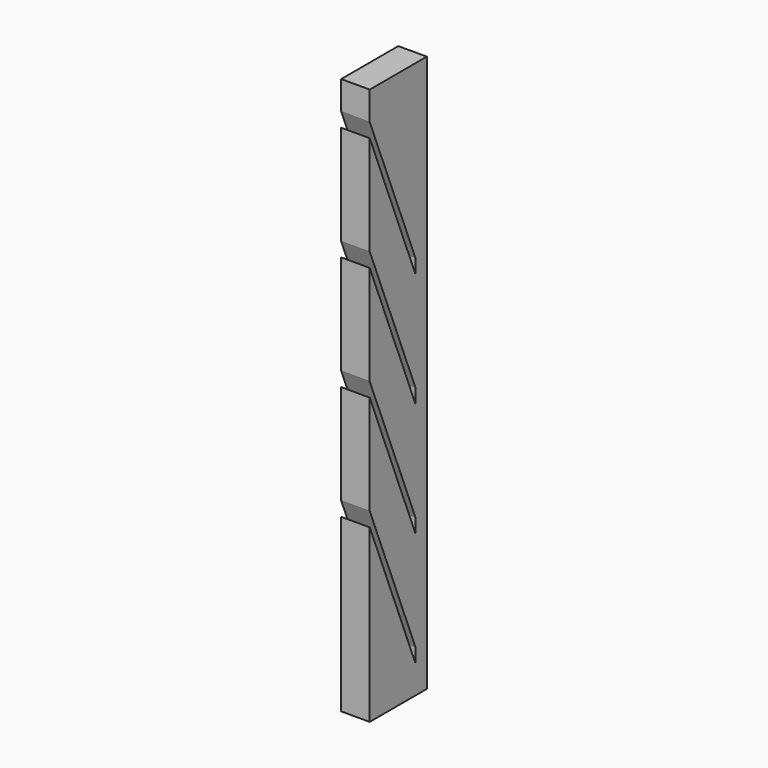
from build123d import *

# Parameters (mm, degrees)
F0_W     = 50
F0_H     = 390
F1_DEPTH = 20
F3_DEPTH = 20.001


with BuildPart() as f1:
    # F0 (on Right) → F1 (new body)
    with BuildSketch(Plane.YZ):
        with Locations((-40.524636, 124.095061)):
            Rectangle(F0_W, F0_H)
    extrude(amount=F1_DEPTH)

    # F2 (on face) → F3 (cut, through all)
    with BuildSketch(Plane.YZ.offset(20)):
        Polygon((-65.524636, 59.095061), (-65.524636, 49.095061), (-25.524636, -50.904939), (-25.524636, -40.904939), align=None)
        Polygon((-25.524636, 29.095061), (-25.524636, 39.095061), (-65.524636, 139.095061), (-65.524636, 129.095061), align=None)
        Polygon((-25.524636, 109.095061), (-25.524636, 119.095061), (-65.524636, 219.095061), (-65.524636, 209.095061), align=None)
        Polygon((-25.524636, 189.095061), (-25.524636, 199.095061), (-65.524636, 299.095061), (-65.524636, 289.095061), align=None)
    extrude(amount=-F3_DEPTH, mode=Mode.SUBTRACT)


solid = f1.part
